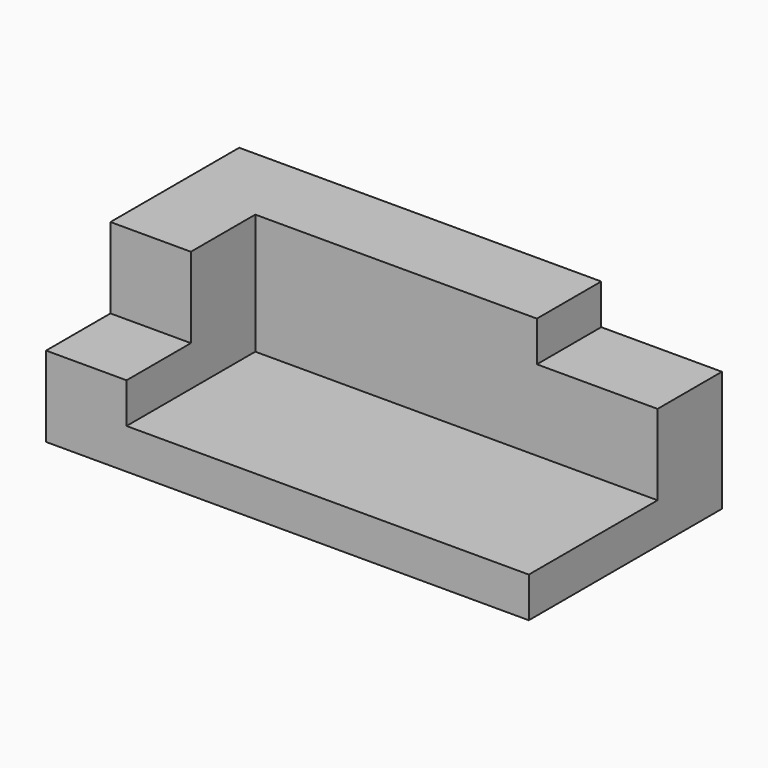
from build123d import *

# Parameters (mm, degrees)
F0_W     = 20
F0_H     = 20
F1_DEPTH = 40
F2_DEPTH = 60
F3_DEPTH = 20


with BuildPart() as f1:
    # F0 (on Front) → F1 (new body)
    with BuildSketch(Plane.XZ):
        with Locations((-110, 30)):
            Rectangle(F0_W, F0_H)
    extrude(amount=F1_DEPTH)

    # F0 (on Front) → F2 (join)
    with BuildSketch(Plane.XZ):
        Polygon((-120, 0), (0, 0), (0, 10), (-100, 10), (-100, 20), (-120, 20), align=None)
    extrude(amount=F2_DEPTH)

    # F0 (on Front) → F3 (join)
    with BuildSketch(Plane.XZ):
        Polygon((-100, 10), (0, 10), (0, 30), (-30, 30), (-30, 40), (-100, 40), (-100, 20), align=None)
    extrude(amount=F3_DEPTH)


solid = f1.part
